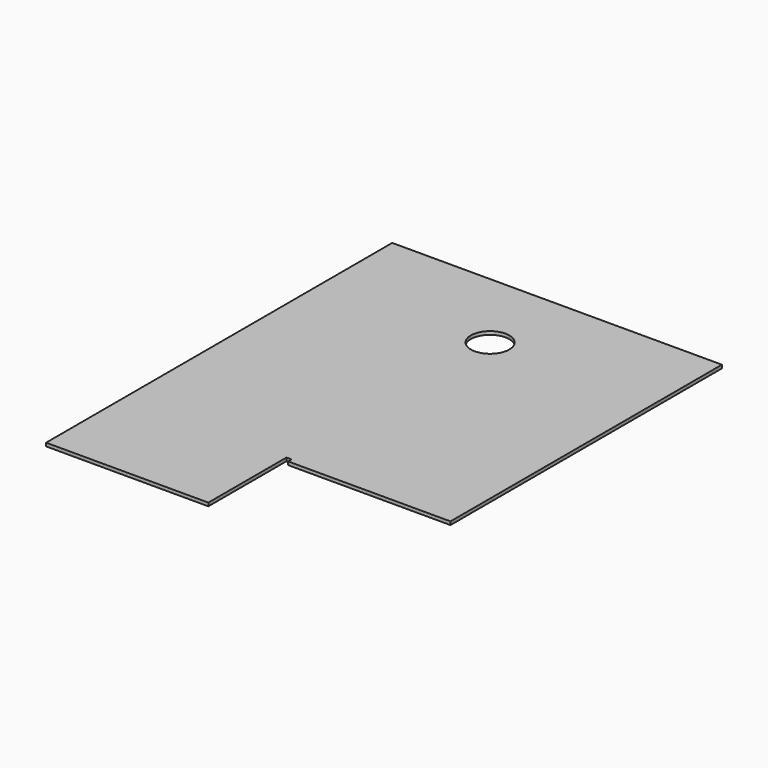
from build123d import *

# Parameters (mm, degrees)
SKETCH_R      = 34.925
EXTRUDE_DEPTH = 5.9944


with BuildPart() as part:
    # Sketch → Extrude (new body)
    with BuildSketch(Plane.XY):
        Polygon((0, 0), (600.075, 0), (600.075, -617.5502), (304.8, -617.5502), (304.8, -609.6), (295.275, -609.6), (295.275, -787.4), (0, -787.4), align=None)
        with Locations((300.0375, -152.4)):
            Circle(SKETCH_R, mode=Mode.SUBTRACT)
    extrude(amount=EXTRUDE_DEPTH)


solid = part.part
